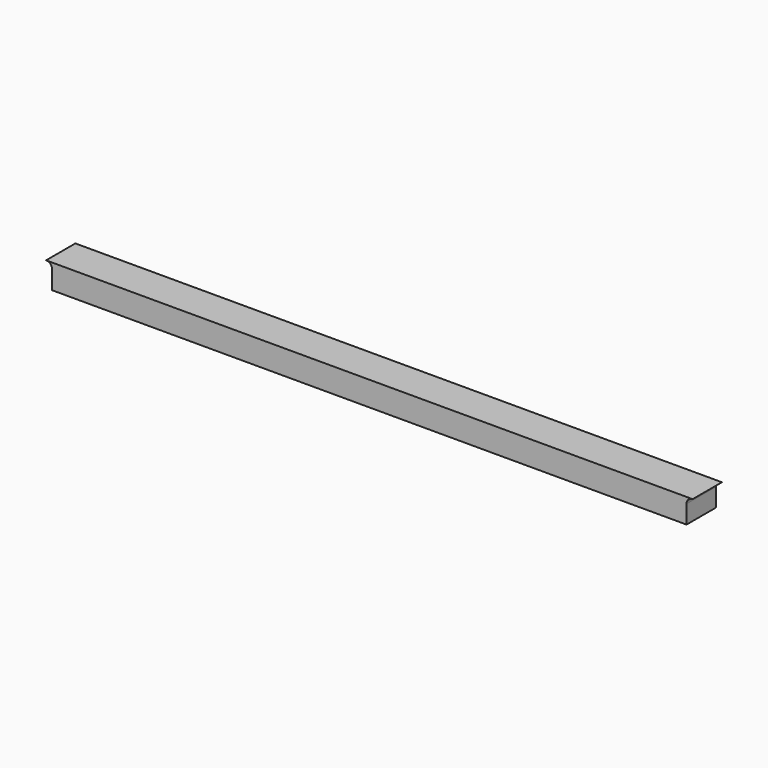
from build123d import *

# Parameters (mm, degrees)
F1_DEPTH = 19.05


with BuildPart() as f1:
    # F0 (on Front) → F1 (new body)
    with BuildSketch(Plane.XZ):
        with BuildLine():
            ThreePointArc((64.58966, 3.175), (65.519596, 5.420064), (67.76466, 6.35))
            Line((67.76466, 6.35), (-268.78534, 6.35))
            ThreePointArc((-268.78534, 6.35), (-266.540276, 5.420064), (-265.61034, 3.175))
            Line((-265.61034, 3.175), (-265.61034, -6.35))
            Line((-265.61034, -6.35), (64.58966, -6.35))
            Line((64.58966, -6.35), (64.58966, 3.175))
        make_face()
    extrude(amount=F1_DEPTH)


solid = f1.part
